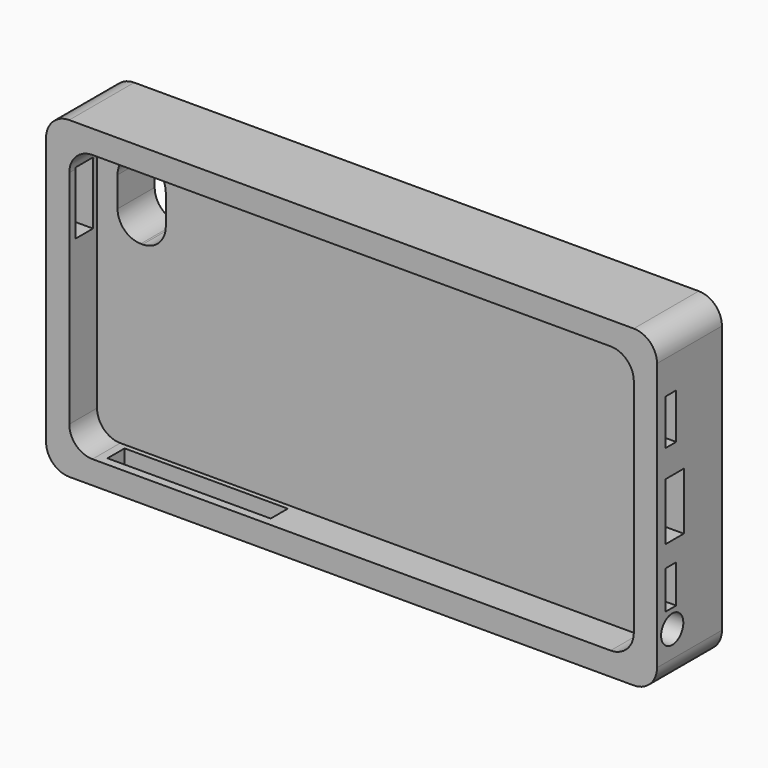
from build123d import *

# Parameters (mm, degrees)
F0_W      = 133.858
F0_H      = 68.834
F1_DEPTH  = 17.78
F2_R      = 5.08
F3_W      = 123.698
F3_H      = 58.674
F4_DEPTH  = 7.62
F5_R      = 5.08
F6_R      = 3.040543
F6_W      = 2.994919
F6_H      = 8.357951
F6_W_2    = 5.08
F6_H_2    = 12.543548
F6_H_3    = 9.953398
F7_DEPTH  = 25.4
F8_W      = 35.758026
F8_H      = 4.692151
F9_DEPTH  = 25.4
F10_W     = 4.773868
F10_H     = 13.748736
F11_DEPTH = 25.4
F12_W     = 10.564138
F12_H     = 16.715713
F13_DEPTH = 25.4
F14_R     = 5.08


with BuildPart() as f1:
    # F0 (on Front) → F1 (new body)
    with BuildSketch(Plane.XZ):
        with Locations((2.471195, 34.417)):
            Rectangle(F0_W, F0_H)
    extrude(amount=F1_DEPTH)

    # F2
    f2_edges = [f1.edges().sort_by_distance(p)[0] for p in [
        (-64.457805, -8.89, 68.834),
        (69.400195, -8.89, 68.834),
        (69.400195, -8.89, 0),
        (-64.457805, -8.89, 0),
    ]]
    fillet(f2_edges, radius=F2_R)

    # F3 (on face) → F4 (cut)
    with BuildSketch(Plane.XZ.offset(17.78)):
        with Locations((2.471195, 34.417)):
            Rectangle(F3_W, F3_H)
    extrude(amount=-F4_DEPTH, mode=Mode.SUBTRACT)

    # F5
    f5_edges = [f1.edges().sort_by_distance(p)[0] for p in [
        (-59.377805, -13.97, 63.754),
        (-59.377805, -13.97, 5.08),
        (64.320195, -13.97, 63.754),
        (64.320195, -13.97, 5.08),
    ]]
    fillet(f5_edges, radius=F5_R)

    # F6 (on face) → F7 (cut)
    with BuildSketch(Plane.YZ.offset(69.400195)):
        with Locations((-13.613829, 10.810261)):
            Circle(F6_R)
        with Locations((-14.022106, 19.101335)):
            Rectangle(F6_W, F6_H)
        with Locations((-12.979566, 34.218168)):
            Rectangle(F6_W_2, F6_H_2)
        with Locations((-14.022106, 51.461173)):
            Rectangle(F6_W, F6_H_3)
    extrude(amount=-F7_DEPTH, mode=Mode.SUBTRACT)

    # F8 (on face) → F9 (cut)
    with BuildSketch(Plane(origin=(0, 0, 0), x_dir=(1, 0, 0), z_dir=(0, 0, -1))):
        with Locations((-34.609821, 13.577307)):
            Rectangle(F8_W, F8_H)
    extrude(amount=-F9_DEPTH, mode=Mode.SUBTRACT)

    # F10 (on face) → F11 (cut)
    with BuildSketch(Plane(origin=(-64.457805, 0, 0), x_dir=(0, -1, 0), z_dir=(-1, 0, 0))):
        with Locations((13.653257, 52.130621)):
            Rectangle(F10_W, F10_H)
    extrude(amount=-F11_DEPTH, mode=Mode.SUBTRACT)

    # F12 (on face) → F13 (cut)
    with BuildSketch(Plane(origin=(0, 0, 0), x_dir=(-1, 0, 0), z_dir=(0, 1, 0))):
        with Locations((49.606802, 53.344105)):
            Rectangle(F12_W, F12_H)
    extrude(amount=-F13_DEPTH, mode=Mode.SUBTRACT)

    # F14
    f14_edges = [f1.edges().sort_by_distance(p)[0] for p in [
        (-54.888871, -5.08, 61.701961),
        (-54.888871, -5.08, 44.986248),
        (-44.324733, -5.08, 44.986248),
        (-44.324733, -5.08, 61.701961),
    ]]
    fillet(f14_edges, radius=F14_R)


solid = f1.part
